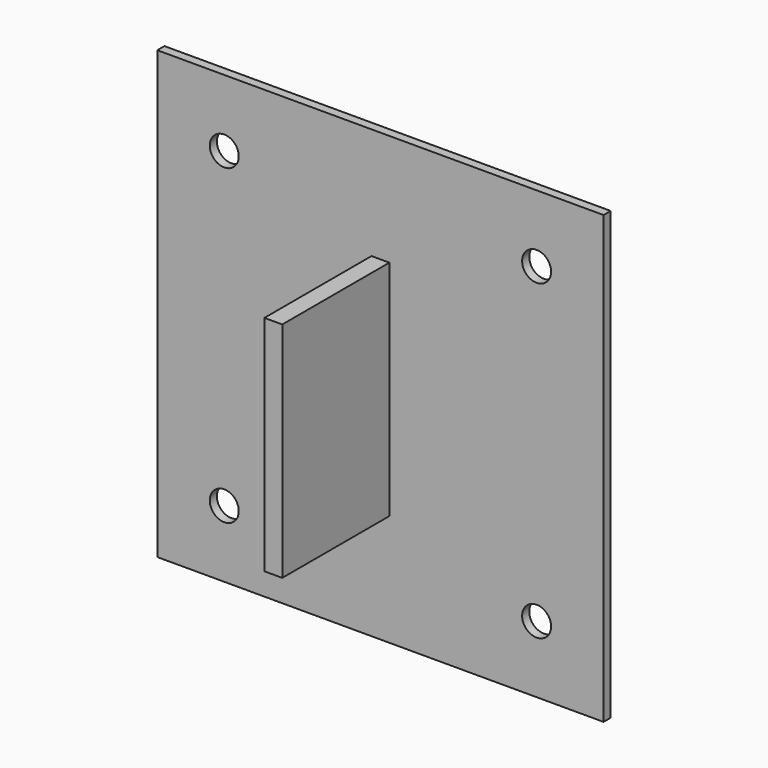
from build123d import *

# Parameters (mm, degrees)
F0_W     = 100
F0_H     = 100
F1_DEPTH = 2
F2_R     = 3.25
F3_DEPTH = 2.001
F4_W     = 4
F4_H     = 50
F5_DEPTH = 30


with BuildPart() as f1:
    # F0 (on Front) → F1 (new body)
    with BuildSketch(Plane.XZ):
        Rectangle(F0_W, F0_H)
    extrude(amount=F1_DEPTH)

    # F2 (on face) → F3 (cut, through all)
    with BuildSketch(Plane.XZ.offset(2)):
        with Locations((-35, 35)):
            Circle(F2_R)
        with Locations((35, 35)):
            Circle(F2_R)
        with Locations((-35, -35)):
            Circle(F2_R)
        with Locations((35, -35)):
            Circle(F2_R)
    extrude(amount=-F3_DEPTH, mode=Mode.SUBTRACT)

    # F4 (on face) → F5 (join)
    with BuildSketch(Plane.XZ.offset(2)):
        Rectangle(F4_W, F4_H)
    extrude(amount=F5_DEPTH)


solid = f1.part
